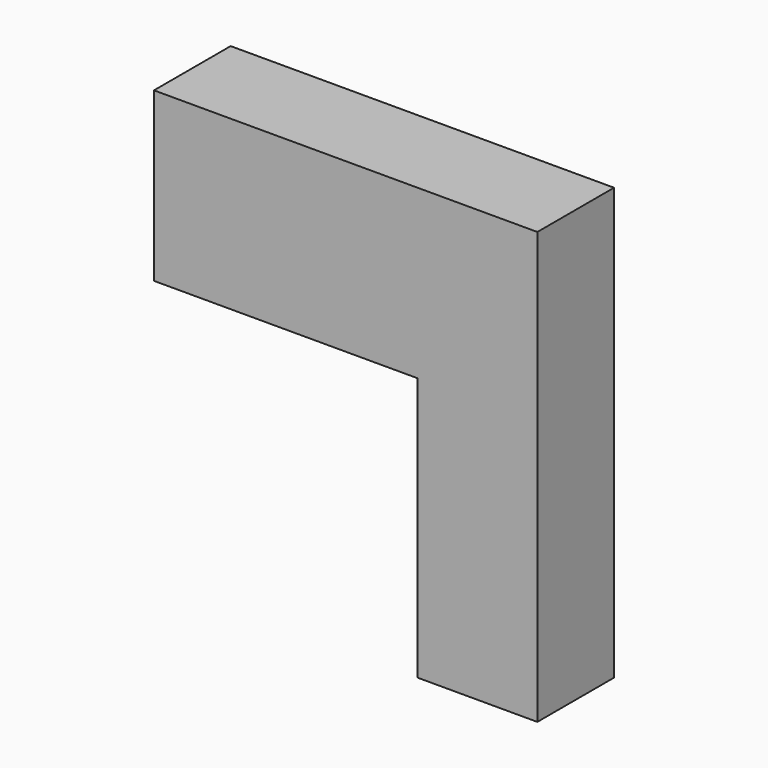
from build123d import *

# Parameters (mm, degrees)
F0_W     = 457.2
F0_H     = 609.6
F1_DEPTH = 101.6
F3_DEPTH = 101.6


with BuildPart() as f1:
    # F0 (on Front) → F1 (new body)
    with BuildSketch(Plane.XZ):
        Rectangle(F0_W, F0_H)
    extrude(amount=F1_DEPTH)

    # F2 (on face) → F3 (cut, through all)
    with BuildSketch(Plane.XZ.offset(101.6)):
        Polygon((101.6, 127), (-177.8, 127), (-177.8, 304.8), (-228.6, 304.8), (-228.6, 127), (-228.6, -304.8), (101.6, -304.8), (228.6, -304.8), (228.6, -152.4), (101.6, -152.4), align=None)
    extrude(amount=-F3_DEPTH, mode=Mode.SUBTRACT)


solid = f1.part
